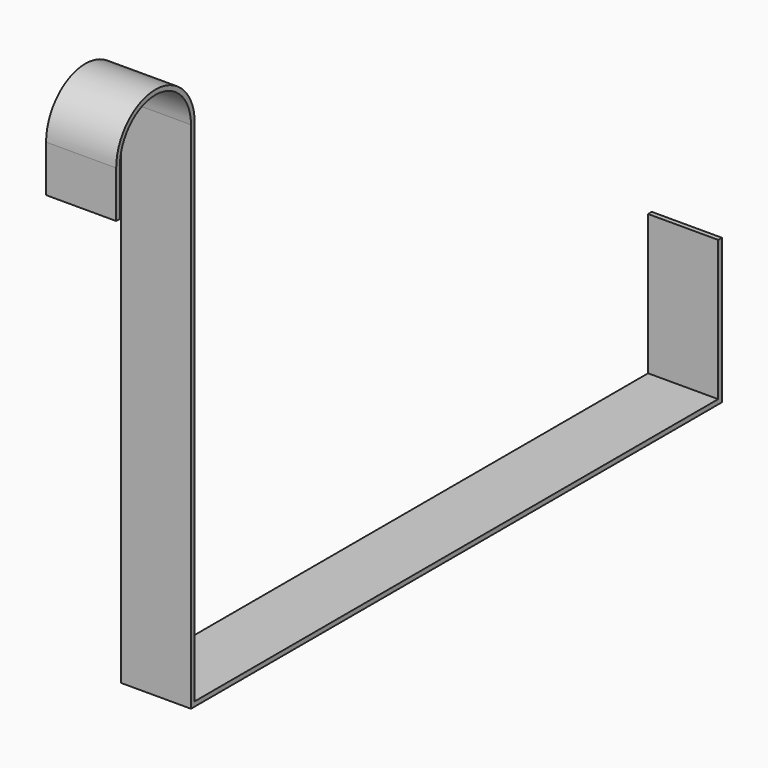
from build123d import *

# Parameters (mm, degrees)
F1_DEPTH      = 30
F2_W          = 30
F2_H          = 2
F3_DEPTH      = 280
F4_W          = 30
F4_H          = 2
F5_DEPTH      = 60
F5_DEPTH_BACK = 2


with BuildPart() as f1:
    # F0 (on Right) → F1 (new body)
    with BuildSketch(Plane.YZ):
        with BuildLine():
            ThreePointArc((-19, 220), (0, 239), (19, 220))
            Line((19, 220), (19, 0))
            Line((19, 0), (21, 0))
            Line((21, 0), (21, 220))
            ThreePointArc((21, 220), (0, 241), (-21, 220))
            Line((-21, 220), (-21, 200))
            Line((-21, 200), (-19, 200))
            Line((-19, 200), (-19, 220))
        make_face()
    extrude(amount=F1_DEPTH)

    # F2 (on face) → F3 (join)
    with BuildSketch(Plane(origin=(0, 21, 0), x_dir=(-1, 0, 0), z_dir=(0, 1, 0))):
        with Locations((-15, 1)):
            Rectangle(F2_W, F2_H)
    extrude(amount=F3_DEPTH)

    # F4 (on face) → F5 (join, two sides)
    with BuildSketch(Plane.XY.offset(2)) as f5_sk:
        with Locations((15, 302)):
            Rectangle(F4_W, F4_H)
    extrude(amount=F5_DEPTH)
    extrude(f5_sk.sketch, amount=-F5_DEPTH_BACK)


solid = f1.part
